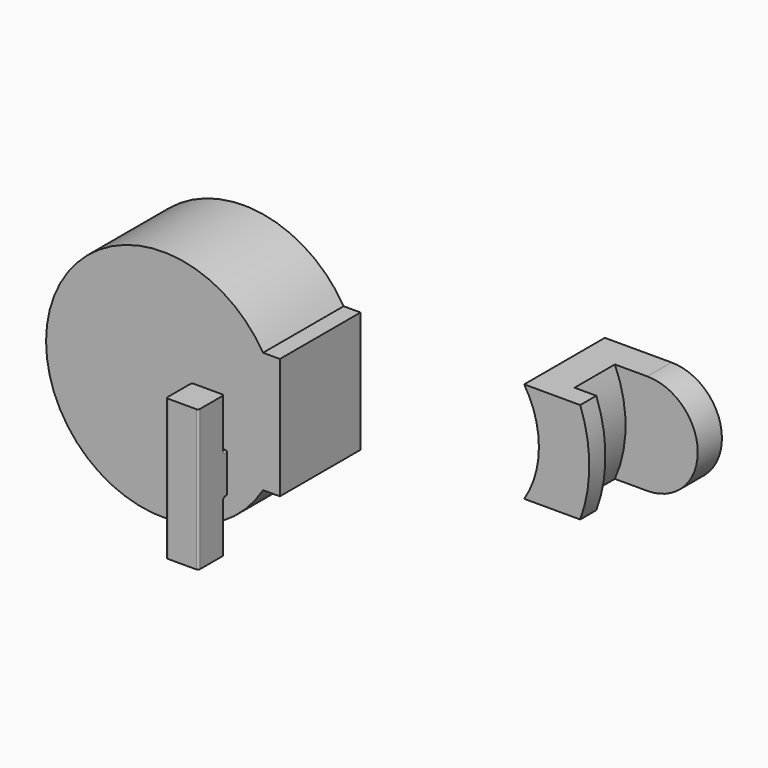
from build123d import *

# Parameters (mm, degrees)
SKETCH004_R      = 3.55
EXTRUDE002_DEPTH = 2
EXTRUDE_DEPTH    = 3
EXTRUDE001_DEPTH = 10
EXTRUDE003_DEPTH = 10
EXTRUDE004_DEPTH = 1.6
FILLET_R         = 0.2


with BuildPart() as extrude002:
    # Sketch004 (on Face11 of Fusion) → Extrude002 (new body)
    with BuildSketch(Plane(origin=(0, 10, 0), x_dir=(-1, 0, 0), z_dir=(0, 1, 0))):
        with Locations((-14.459973, 0)):
            Circle(SKETCH004_R)
    extrude(amount=-EXTRUDE002_DEPTH)


with BuildPart() as extrude_body:
    # Sketch003 (on Face5 of Cut) → Extrude (new body)
    with BuildSketch(Plane(origin=(0, 10, 0), x_dir=(-1, 0, 0), z_dir=(0, 1, 0))):
        with BuildLine():
            ThreePointArc((-14.459945, 5), (-19.459969, 0), (-14.459945, -5))
            Line((-14.459945, 5), (-14.459945, -5))
        make_face()
    extrude(amount=-EXTRUDE_DEPTH)


with BuildPart() as extrude001:
    # Sketch002 → Extrude001 (new body)
    with BuildSketch(Plane.XZ):
        Polygon((1, 5), (20, 5), (20, 20), (-20, 20), (-20, -20), (20, -20), (20, -5), (1, -5), (1, 0), align=None)
    extrude(amount=-EXTRUDE001_DEPTH)


with BuildPart() as cut001:
    # Sketch → Revolve (revolve)
    with BuildSketch(Plane.XY):
        Polygon((9.3, 10), (9.3, 0), (14.3, 0), (14.3, 2), (12.3, 2), (12.3, 7), (15.3, 7), (15.3, 10), align=None)
    revolve(axis=Axis((0, 0, 0), (0, 1, 0)))

    # Cut: cut Extrude001
    add(extrude001.part, mode=Mode.SUBTRACT)

    # Fusion: union Extrude body
    add(extrude_body.part)

    # Cut001: cut Extrude002
    add(extrude002.part, mode=Mode.SUBTRACT)


with BuildPart() as extrude003:
    # Sketch005 → Extrude003 (new body)
    with BuildSketch(Plane.XZ):
        with BuildLine():
            ThreePointArc((-10.072261, 6), (-31.6, 0), (-10.072261, -6))
            Line((-8.4, -6), (-10.072261, -6))
            Line((-8.4, 0), (-8.4, -6))
            Line((-8.4, 0), (-8.4, 6))
            Line((-8.4, 6), (-10.072261, 6))
        make_face()
    extrude(amount=EXTRUDE003_DEPTH)


with BuildPart() as body:
    # Sketch006 (on Face1 of Extrude003) → Extrude004 (new body, symmetric)
    with BuildSketch(Plane.YZ.offset(-8.4)):
        Polygon((-22.121005, 7), (-18.921005, 7), (-18.921005, 2), (-18.421005, 2), (-18.421005, -2), (-18.921005, -2), (-18.921005, -7), (-22.121005, -7), align=None)
    extrude(amount=EXTRUDE004_DEPTH, both=True)

    # Fillet
    fillet_edges = [body.edges().sort_by_distance(p)[0] for p in [
        (-10, -22.121005, 0),
        (-10, -18.921005, -4.5),
        (-6.8, -18.921005, -4.5),
        (-10, -18.921005, 4.5),
        (-6.8, -18.921005, 4.5),
        (-6.8, -22.121005, 0),
        (-10, -18.421005, 0),
        (-6.8, -18.421005, 0),
        (-8.4, -18.921005, -2),
        (-8.4, -18.421005, -2),
        (-10, -18.671005, -2),
        (-6.8, -18.671005, -2),
        (-8.4, -18.421005, 2),
        (-8.4, -18.921005, 2),
        (-10, -18.671005, 2),
        (-6.8, -18.671005, 2),
    ]]
    fillet(fillet_edges, radius=FILLET_R)


solid = Compound([cut001.part, extrude003.part, body.part])
